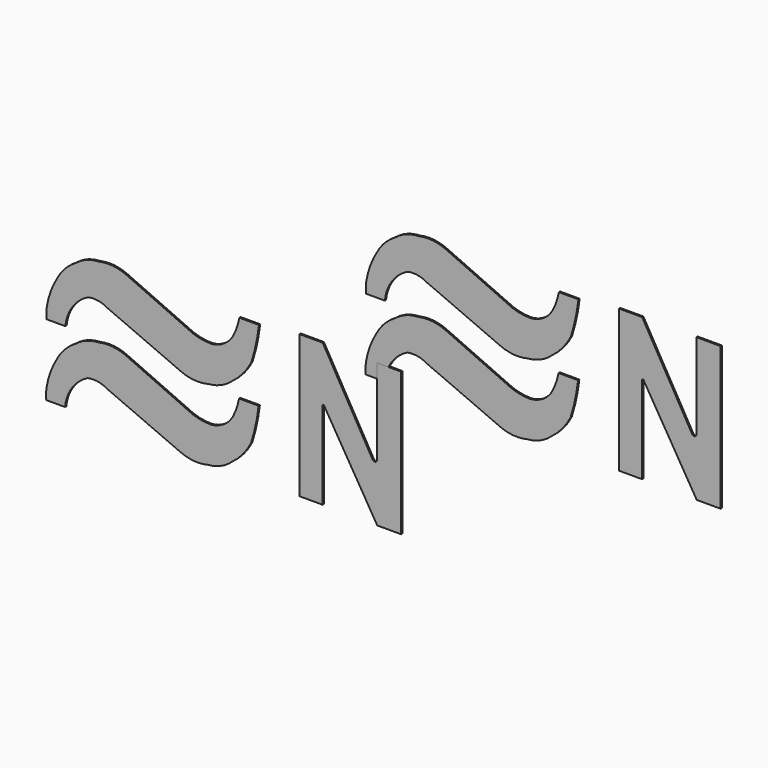
from build123d import *

# Parameters (mm, degrees)
F1_DEPTH = 0.2
F2_SCALE = 10
F3_SCALE = 10


with BuildPart() as f1:
    # F0 (on Front) → F1 (new body)
    with BuildSketch(Plane.XZ):
        with BuildLine():
            Line((-24.0475423634, 35.3409834206), (-24.0475423634, 16.5766682476))
            Line((-24.0475423634, 16.5766682476), (-20.9928862751, 16.5766682476))
            Line((-20.9928862751, 16.5766682476), (-20.9928862751, 28.0679930001))
            ThreePointArc((-20.9928862751, 28.0679930001), (-20.8874456584, 28.1734336168), (-20.7820050418, 28.0679930001))
            Line((-20.7820050418, 28.0679930001), (-13.8135375455, 16.5167059749))
            Line((-13.8135375455, 16.5167059749), (-10.6652388349, 16.5167059749))
            Line((-10.6652388349, 16.5167059749), (-10.6652388349, 35.3409834206))
            Line((-10.6652388349, 35.3409834206), (-13.8653554022, 35.3409834206))
            Line((-13.8653554022, 35.3409834206), (-13.8653554022, 24.081571989))
            ThreePointArc((-13.8653554022, 24.081571989), (-14.0845467358, 23.7960138528), (-14.417060109, 23.933938276))
            Line((-14.417060109, 23.933938276), (-20.9928862751, 35.3409834206))
            Line((-20.9928862751, 35.3409834206), (-24.0475423634, 35.3409834206))
        make_face()
    extrude(amount=F1_DEPTH)


with BuildPart() as f1b:
    # F0 (on Front) → F1, piece 2 (new body)
    with BuildSketch(Plane.XZ):
        with BuildLine():
            ThreePointArc((-57.2700314224, 27.6765413582), (-57.3211543434, 26.9625203053), (-57.2968497872, 26.2470841408))
            Line((-57.2968497872, 26.2470841408), (-54.8283159733, 26.2470841408))
            ThreePointArc((-54.8283159733, 26.2470841408), (-53.8927322089, 28.7908349371), (-51.8455021083, 30.5670201778))
            ThreePointArc((-51.8455021083, 30.5670201778), (-50.5201495319, 30.6006456588), (-49.2758862674, 30.1429349929))
            Line((-49.2758862674, 30.1429349929), (-39.6391749382, 25.9609669447))
            ThreePointArc((-39.6391749382, 25.9609669447), (-37.8632408691, 25.5168768071), (-36.0390432179, 25.6700459868))
            ThreePointArc((-36.0390432179, 25.6700459868), (-34.3636358482, 26.0831365975), (-32.911658287, 27.0155500621))
            ThreePointArc((-32.911658287, 27.0155500621), (-31.4603916499, 28.3741584077), (-30.3661115468, 30.0338398665))
            ThreePointArc((-30.3661115468, 30.0338398665), (-29.7571957963, 32.32842811), (-29.3704476207, 34.6707217395))
            Line((-29.3704476207, 34.6707217395), (-31.9418385625, 34.6707217395))
            ThreePointArc((-31.9418385625, 34.6707217395), (-32.270370622, 33.459051599), (-32.7646806836, 32.3050431907))
            ThreePointArc((-32.7646806836, 32.3050431907), (-33.9750781019, 31.0222153311), (-35.6446392834, 30.4536428303))
            ThreePointArc((-35.6446392834, 30.4536428303), (-36.8717496808, 30.5503302726), (-38.0617454648, 30.8650657535))
            Line((-38.0617454648, 30.8650657535), (-46.8044728041, 34.7992926836))
            ThreePointArc((-46.8044728041, 34.7992926836), (-48.5623133421, 35.2699614307), (-50.3787063062, 35.1592861116))
            ThreePointArc((-50.3787063062, 35.1592861116), (-52.0166439163, 34.834330265), (-53.4643754363, 34.0021587908))
            ThreePointArc((-53.4643754363, 34.0021587908), (-54.8534950781, 32.9153745772), (-55.8814816177, 31.4821973443))
            ThreePointArc((-55.8814816177, 31.4821973443), (-56.7601397429, 29.6466442939), (-57.2700314224, 27.6765413582))
        make_face()
    extrude(amount=F1_DEPTH)


with BuildPart() as f1c:
    # F0 (on Front) → F1, piece 3 (new body)
    with BuildSketch(Plane.XZ):
        with BuildLine():
            ThreePointArc((-57.3122911155, 18.3058604598), (-57.3634140365, 17.5918394069), (-57.3391094804, 16.8764032423))
            Line((-57.3391094804, 16.8764032423), (-54.8705756664, 16.8764032423))
            ThreePointArc((-54.8705756664, 16.8764032423), (-53.9349919021, 19.4201540387), (-51.8877618015, 21.1963392794))
            ThreePointArc((-51.8877618015, 21.1963392794), (-50.562409225, 21.2299647603), (-49.3181459606, 20.7722540945))
            Line((-49.3181459606, 20.7722540945), (-39.6814346313, 16.5902860463))
            ThreePointArc((-39.6814346313, 16.5902860463), (-37.9055005622, 16.1461959087), (-36.081302911, 16.2993650883))
            ThreePointArc((-36.081302911, 16.2993650883), (-34.4058955414, 16.7124556991), (-32.9539179802, 17.6448691636))
            ThreePointArc((-32.9539179802, 17.6448691636), (-31.502651343, 19.0034775093), (-30.4083712399, 20.6631589681))
            ThreePointArc((-30.4083712399, 20.6631589681), (-29.7994554895, 22.9577472116), (-29.4127073139, 25.3000408411))
            Line((-29.4127073139, 25.3000408411), (-31.9840982556, 25.3000408411))
            ThreePointArc((-31.9840982556, 25.3000408411), (-32.3126303151, 24.0883707006), (-32.8069403768, 22.9343622923))
            ThreePointArc((-32.8069403768, 22.9343622923), (-34.017337795, 21.6515344327), (-35.6868989766, 21.0829619318))
            ThreePointArc((-35.6868989766, 21.0829619318), (-36.9140093739, 21.1796493742), (-38.1040051579, 21.494384855))
            Line((-38.1040051579, 21.494384855), (-46.8467324972, 25.4286117852))
            ThreePointArc((-46.8467324972, 25.4286117852), (-48.6045730352, 25.8992805323), (-50.4209659994, 25.7886052132))
            ThreePointArc((-50.4209659994, 25.7886052132), (-52.0589036094, 25.4636493666), (-53.5066351295, 24.6314778924))
            ThreePointArc((-53.5066351295, 24.6314778924), (-54.8957547713, 23.5446936788), (-55.9237413108, 22.1115164459))
            ThreePointArc((-55.9237413108, 22.1115164459), (-56.8023994361, 20.2759633955), (-57.3122911155, 18.3058604598))
        make_face()
    extrude(amount=F1_DEPTH)


with BuildPart() as f2_1:
    # F2: copy of F1b
    add(f1b.part.scale(F2_SCALE).moved(Location((516.0519853234, 1.8, -151.8876291811))))


with BuildPart() as f2_2:
    # F2: copy of F1c
    add(f1c.part.scale(F2_SCALE).moved(Location((516.0519853234, 1.8, -151.8876291811))))


with BuildPart() as f2_3:
    # F2: copy of F1
    add(f1.part.scale(F2_SCALE).moved(Location((516.0519853234, 1.8, -151.8876291811))))


with BuildPart() as f3_1:
    # F3: copy of F1
    add(f1.part.scale(F3_SCALE).moved(Location((95.9871495143, 1.8, -318.0688507855))))


with BuildPart() as f3_2:
    # F3: copy of F1b
    add(f1b.part.scale(F3_SCALE).moved(Location((95.9871495143, 1.8, -318.0688507855))))


with BuildPart() as f3_3:
    # F3: copy of F1c
    add(f1c.part.scale(F3_SCALE).moved(Location((95.9871495143, 1.8, -318.0688507855))))


solid = Compound([f1.part, f1b.part, f1c.part, f2_1.part, f2_2.part, f2_3.part, f3_1.part, f3_2.part, f3_3.part])
